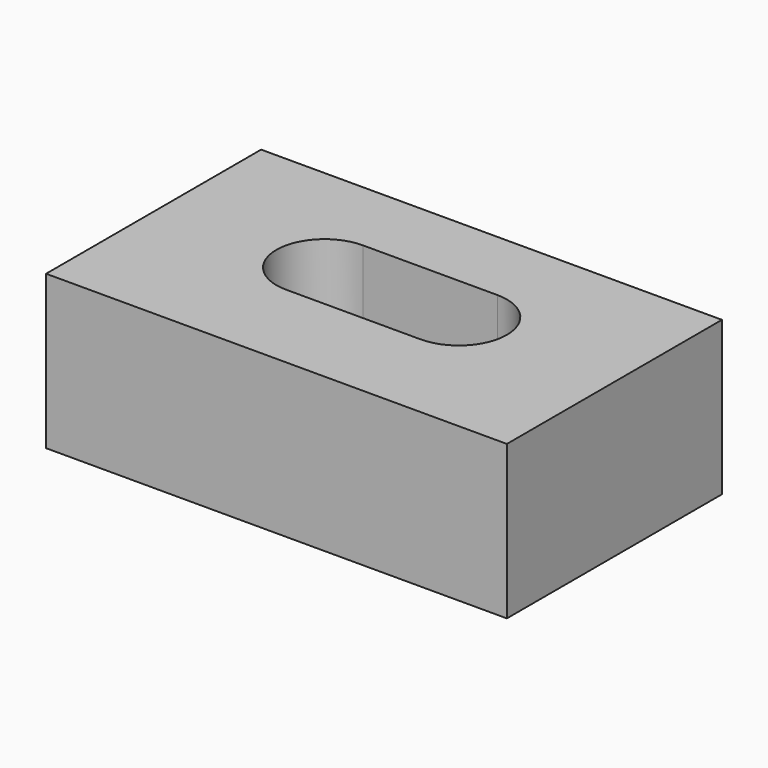
from build123d import *

# Parameters (mm, degrees)
F0_W     = 152.4
F0_H     = 88.9
F1_DEPTH = 50.8
F3_DEPTH = 25.4


with BuildPart() as f1:
    # F0 (on Top) → F1 (new body)
    with BuildSketch(Plane.XY):
        with Locations((76.2, 44.45)):
            Rectangle(F0_W, F0_H)
    extrude(amount=F1_DEPTH)

    # F2 (on face) → F3 (cut)
    with BuildSketch(Plane.XY.offset(50.8)):
        with BuildLine():
            ThreePointArc((53.975, 63.5), (38.1, 47.625), (53.975, 31.75))
            Line((53.975, 31.75), (98.425, 31.75))
            ThreePointArc((98.425, 31.75), (114.3, 47.625), (98.425, 63.5))
            Line((98.425, 63.5), (53.975, 63.5))
        make_face()
    extrude(amount=-F3_DEPTH, mode=Mode.SUBTRACT)


solid = f1.part
